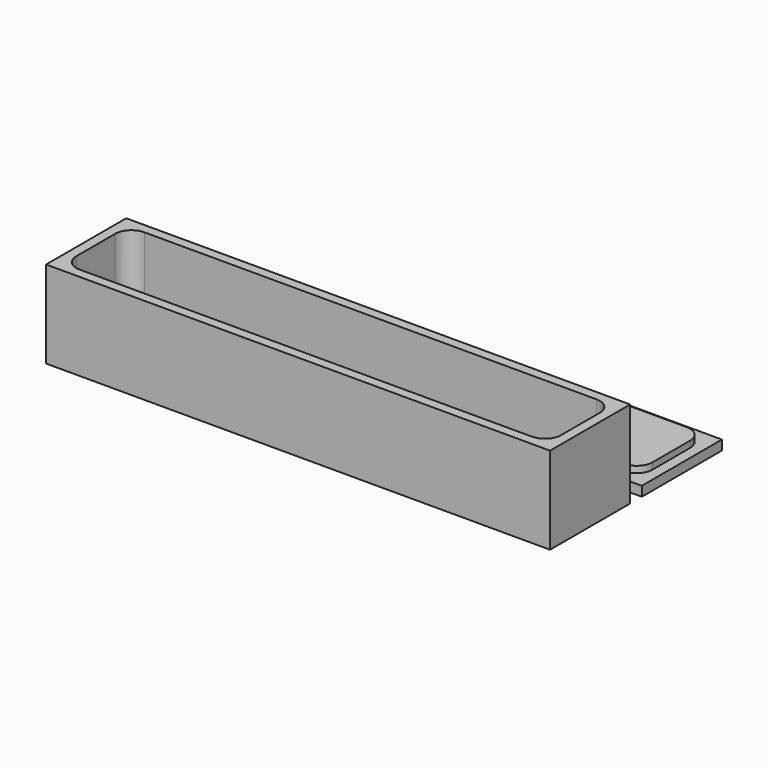
from build123d import *

# Parameters (mm, degrees)
F0_W     = 156
F0_H     = 31
F1_DEPTH = 27
F3_DEPTH = 22
F4_W     = 156
F4_H     = 31
F5_DEPTH = 3
F7_DEPTH = 2


with BuildPart() as f1:
    # F0 (on Top) → F1 (new body)
    with BuildSketch(Plane.XY):
        Rectangle(F0_W, F0_H)
    extrude(amount=F1_DEPTH)

    # F2 (on face) → F3 (cut)
    with BuildSketch(Plane.XY.offset(27)):
        with BuildLine():
            ThreePointArc((75, 7.5), (73.535534, 11.035534), (70, 12.5))
            Line((70, 12.5), (-70, 12.5))
            ThreePointArc((-70, 12.5), (-73.535534, 11.035534), (-75, 7.5))
            Line((-75, 7.5), (-75, -7.5))
            ThreePointArc((-75, -7.5), (-73.535534, -11.035534), (-70, -12.5))
            Line((-70, -12.5), (70, -12.5))
            ThreePointArc((70, -12.5), (73.535534, -11.035534), (75, -7.5))
            Line((75, -7.5), (75, 7.5))
        make_face()
    extrude(amount=-F3_DEPTH, mode=Mode.SUBTRACT)


with BuildPart() as f5:
    # F4 (on Top) → F5 (new body)
    with BuildSketch(Plane.XY):
        with Locations((0, 35.5)):
            Rectangle(F4_W, F4_H)
    extrude(amount=F5_DEPTH)

    # F6 (on face) → F7 (join)
    with BuildSketch(Plane.XY.offset(3)):
        with BuildLine():
            ThreePointArc((-74.75, 28.25), (-73.285534, 24.714466), (-69.75, 23.25))
            Line((-69.75, 23.25), (69.75, 23.25))
            ThreePointArc((69.75, 23.25), (73.285534, 24.714466), (74.75, 28.25))
            Line((74.75, 28.25), (74.75, 42.75))
            ThreePointArc((74.75, 42.75), (73.285534, 46.285534), (69.75, 47.75))
            Line((69.75, 47.75), (-69.75, 47.75))
            ThreePointArc((-69.75, 47.75), (-73.285534, 46.285534), (-74.75, 42.75))
            Line((-74.75, 42.75), (-74.75, 28.25))
        make_face()
    extrude(amount=F7_DEPTH)


solid = Compound([f1.part, f5.part])
